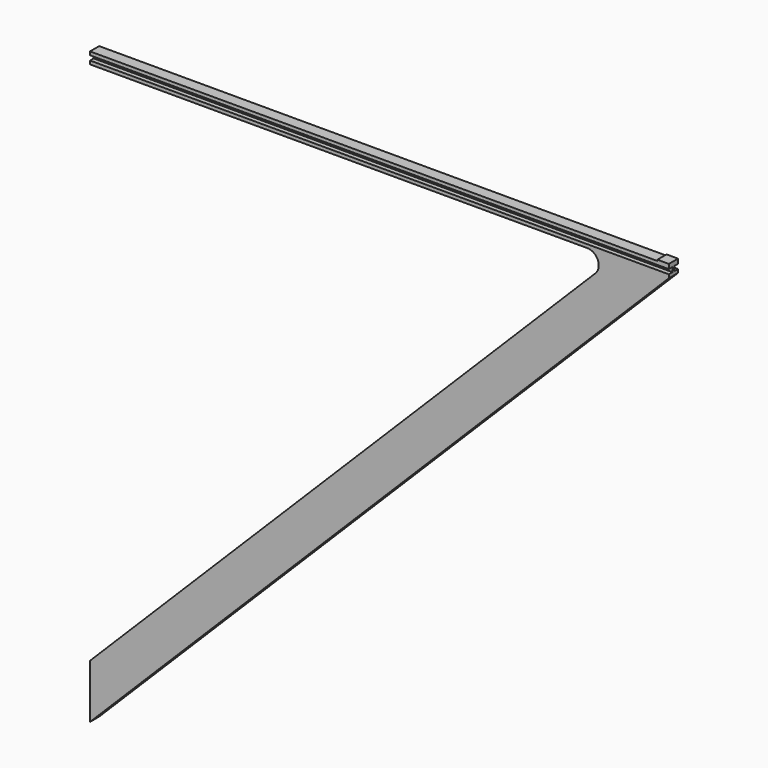
from build123d import *

# Parameters (mm, degrees)
F1_DEPTH  = 505
F2_W      = 10
F2_H      = 10
F3_DEPTH  = 1
F4_W      = 505
F4_H      = 10
F5_DEPTH  = 505
F7_DEPTH  = 10.001
F8_DEPTH  = 10.001
F10_DEPTH = 10.001
F11_R     = 10


with BuildPart() as f1:
    # F0 (on Right) → F1 (new body)
    with BuildSketch(Plane.YZ):
        Polygon((-1, 2), (-1, 0), (-1, -2), (-5, -2), (-5, -5), (0, -5), (5, -5), (5, -2), (1, -2), (1, 0), (1, 2), (5, 2), (5, 5), (0, 5), (-5, 5), (-5, 2), align=None)
    extrude(amount=F1_DEPTH)

    # F2 (on face) → F3 (join)
    with BuildSketch(Plane.XY.offset(5)):
        with Locations((500, 0)):
            Rectangle(F2_W, F2_H)
    extrude(amount=F3_DEPTH)

    # F4 (on face) → F5 (join)
    with BuildSketch(Plane(origin=(0, 0, -5), x_dir=(1, 0, 0), z_dir=(0, 0, -1))):
        with Locations((252.5, 0)):
            Rectangle(F4_W, F4_H)
    extrude(amount=F5_DEPTH)

    # F6 (on face) → F7 (cut, through all)
    with BuildSketch(Plane.XZ.offset(5)):
        Polygon((0, -5), (0, -463), (458, -5), align=None)
    extrude(amount=-F7_DEPTH, mode=Mode.SUBTRACT)

    # F6 (on face) → F8 (cut, through all)
    with BuildSketch(Plane.XZ.offset(5)):
        Polygon((0, -5), (0, -463), (458, -5), align=None)
    extrude(amount=-F8_DEPTH, mode=Mode.SUBTRACT)

    # F9 (on face) → F10 (cut, through all)
    with BuildSketch(Plane.XZ.offset(5)):
        Polygon((505, -5), (0, -510), (505, -510), align=None)
    extrude(amount=-F10_DEPTH, mode=Mode.SUBTRACT)

    # F11
    f11_edges = [f1.edges().sort_by_distance(p)[0] for p in [
        (458, 0, -5),
    ]]
    fillet(f11_edges, radius=F11_R)


solid = f1.part
